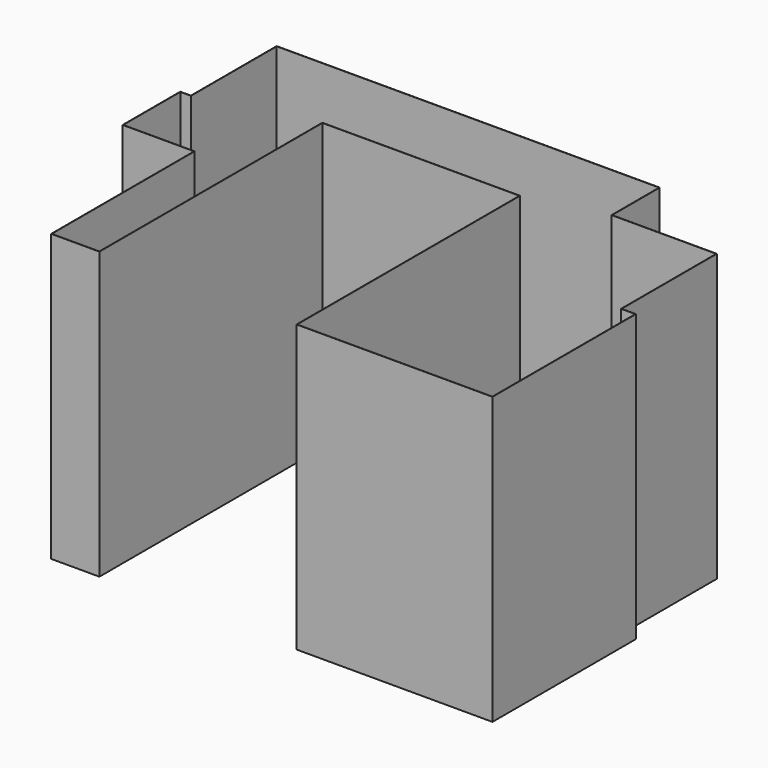
from build123d import *

# Parameters (mm, degrees)
F1_DEPTH = 2400
F2_T     = 2.5


with BuildPart() as f1:
    # F0 (on Top) → F1 (new body)
    with BuildSketch(Plane.XY):
        Polygon((1150, 1500), (-2060.9152317047, 1500), (-2060.9152317047, 600), (-2150, 600), (-2150, 0), (-1550, 0), (-1550, -1500), (-1150, -1500), (-1150, 840), (510, 840), (510, -1500), (2150, -1500), (2150, 0), (2029.5548439026, 0), (2029.5548439026, 1000), (1150, 1000), align=None)
    extrude(amount=F1_DEPTH)

    # F2
    f2_openings = [f1.faces().sort_by_distance(p)[0] for p in [
        (-455.457616, 1447.569093, 2400),
    ]]
    offset(amount=F2_T, openings=f2_openings, kind=Kind.INTERSECTION)


solid = f1.part
